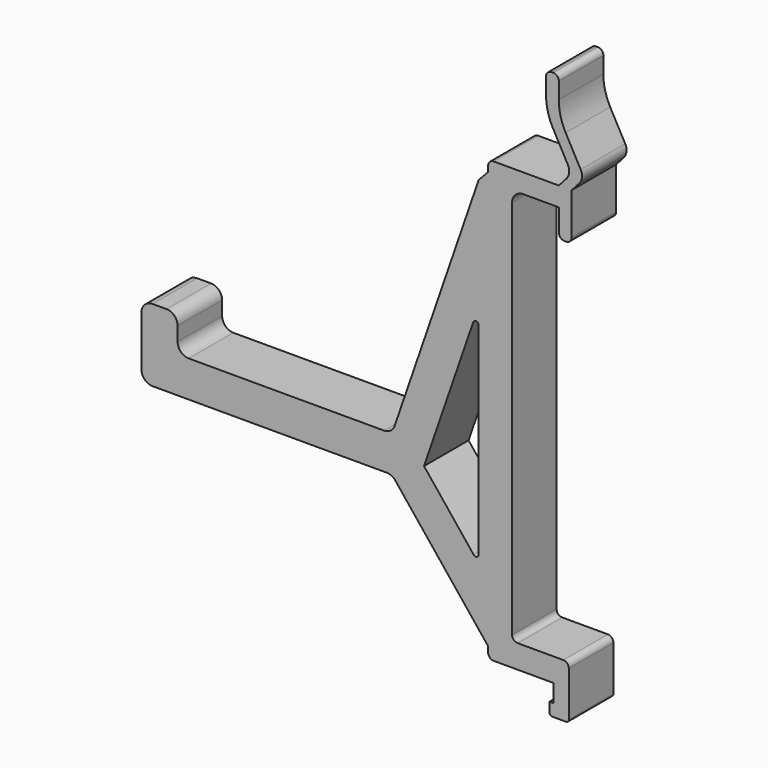
from build123d import *

# Parameters (mm, degrees)
F1_DEPTH = 5


with BuildPart() as f1:
    # F0 (on Front) → F1 (new body, symmetric)
    with BuildSketch(Plane.XZ):
        with BuildLine():
            Line((-4.3, 37.6), (-6, 35.776973193))
            Line((-6, 35.776973193), (-21.085353054, -8.0015684709))
            ThreePointArc((-21.085353054, -8.0015684709), (-21.8150214993, -8.9783637404), (-22.9762413446, -9.35))
            Line((-22.9762413446, -9.35), (-58.05, -9.35))
            ThreePointArc((-58.05, -9.35), (-59.4642135624, -8.7642135624), (-60.05, -7.35))
            Line((-60.05, -7.35), (-60.05, -4.85))
            ThreePointArc((-60.05, -4.85), (-60.6357864376, -3.4357864376), (-62.05, -2.85))
            Line((-62.05, -2.85), (-64.55, -2.85))
            ThreePointArc((-64.55, -2.85), (-65.9642135624, -3.4357864376), (-66.55, -4.85))
            Line((-66.55, -4.85), (-66.55, -13.85))
            ThreePointArc((-66.55, -13.85), (-65.9642135624, -15.2642135624), (-64.55, -15.85))
            Line((-64.55, -15.85), (-22.5095066627, -15.85))
            ThreePointArc((-22.5095066627, -15.85), (-21.6444060516, -16.0467803981), (-20.9495402831, -16.5983990675))
            Line((-20.9495402831, -16.5983990675), (-4.3, -37.35))
            Line((-4.3, -37.35), (-4.3, -38.35))
            ThreePointArc((-4.3, -38.35), (-4.0071067812, -39.0571067812), (-3.3, -39.35))
            Line((-3.3, -39.35), (7.45, -39.35))
            Line((7.45, -39.35), (7.45, -42.55))
            Line((7.45, -42.55), (6.7, -42.55))
            Line((6.7, -42.55), (6.7, -44.25))
            ThreePointArc((6.7, -44.25), (6.8464466094, -44.6035533906), (7.2, -44.75))
            Line((7.2, -44.75), (9.7, -44.75))
            ThreePointArc((9.7, -44.75), (10.0535533906, -44.6035533906), (10.2, -44.25))
            Line((10.2, -44.25), (10.2, -36.15))
            ThreePointArc((10.2, -36.15), (9.9071067812, -35.4428932188), (9.2, -35.15))
            Line((9.2, -35.15), (1, -35.15))
            ThreePointArc((1, -35.15), (0.2928932188, -34.8571067812), (0, -34.15))
            Line((0, -34.15), (0, 34.15))
            ThreePointArc((0, 34.15), (0.5857864376, 35.5642135624), (2, 36.15))
            Line((2, 36.15), (8.4, 36.15))
            Line((8.4, 36.15), (8.4, 32.15))
            ThreePointArc((8.4, 32.15), (8.6928932188, 31.4428932188), (9.4, 31.15))
            Line((9.4, 31.15), (9.7, 31.15))
            ThreePointArc((9.7, 31.15), (10.4071067812, 31.4428932188), (10.7, 32.15))
            Line((10.7, 32.15), (10.7, 39.6))
            Line((10.7, 39.6), (12.0584372697, 41.1197607825))
            ThreePointArc((12.0584372697, 41.1197607825), (12.5542284753, 42.2243517405), (12.3218441058, 43.4125973417))
            Line((12.3218441058, 43.4125973417), (9.6272657122, 48.3374442137))
            ThreePointArc((9.6272657122, 48.3374442137), (8.7116734449, 50.6601925206), (8.4, 53.1373539124))
            Line((8.4, 53.1373539124), (8.4, 56.1))
            ThreePointArc((8.4, 56.1), (8.1071067812, 56.8071067812), (7.4, 57.1))
            Line((7.4, 57.1), (7.1, 57.1))
            ThreePointArc((7.1, 57.1), (6.3928932188, 56.8071067812), (6.1, 56.1))
            Line((6.1, 56.1), (6.1, 53.1373539124))
            ThreePointArc((6.1, 53.1373539124), (6.4116734449, 50.6601925206), (7.3272657122, 48.3374442137))
            Line((7.3272657122, 48.3374442137), (10.0218441058, 43.4125973417))
            ThreePointArc((10.0218441058, 43.4125973417), (10.2542284753, 42.2243517405), (9.7584372697, 41.1197607825))
            Line((9.7584372697, 41.1197607825), (8.4, 39.6))
            Line((8.4, 39.6), (-3.3, 39.6))
            ThreePointArc((-3.3, 39.6), (-4.0071067812, 39.3071067812), (-4.3, 38.6))
            Line((-4.3, 38.6), (-4.3, 37.6))
        make_face()
        with BuildLine():
            Line((-6, 12.8393314671), (-6, -23.4222970219))
            ThreePointArc((-6, -23.4222970219), (-6.334162425, -23.8939938512), (-6.8899915949, -23.7351972551))
            Line((-6.8899915949, -23.7351972551), (-15.8036005744, -12.6254817154))
            Line((-15.8036005744, -12.6254817154), (-6.9727220727, 13.0022235849))
            ThreePointArc((-6.9727220727, 13.0022235849), (-6.417419846, 13.3324648347), (-6, 12.8393314671))
        make_face(mode=Mode.SUBTRACT)
    extrude(amount=F1_DEPTH, both=True)


solid = f1.part
